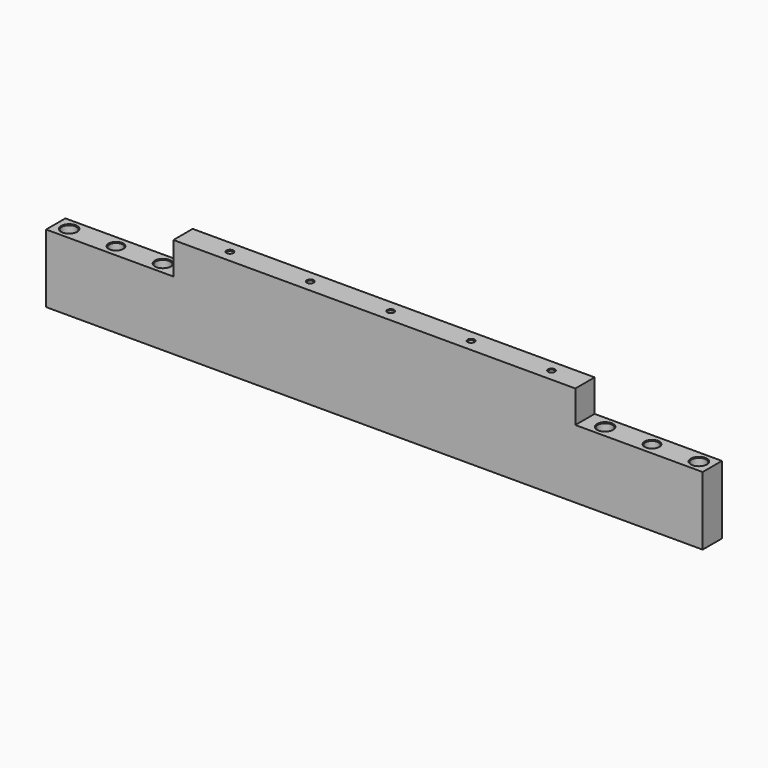
from build123d import *

# Parameters (mm, degrees)
F1_DEPTH = 9
F2_R     = 5.5
F3_DEPTH = 51
F4_R     = 2.1
F5_DEPTH = 25
F6_R     = 5
F7_DEPTH = 25
F8_SIZE  = 5
F9_SIZE  = 2.1
F10_SIZE = 0.5


with BuildPart() as f1:
    # F0 (on Front) → F1 (new body, symmetric)
    with BuildSketch(Plane.XZ):
        Polygon((-245, 13.5), (-245, -37.5), (245, -37.5), (245, 13.5), (150, 13.5), (150, 37.5), (-150, 37.5), (-150, 13.5), align=None)
    extrude(amount=F1_DEPTH, both=True)

    # F2 (on face) → F3 (cut, through all)
    with BuildSketch(Plane(origin=(0, 0, -37.5), x_dir=(1, 0, 0), z_dir=(0, 0, -1))):
        with Locations((235, 0)):
            Circle(F2_R)
        with Locations((165, 0)):
            Circle(F2_R)
        with Locations((-165, 0)):
            Circle(F2_R)
        with Locations((-235, 0)):
            Circle(F2_R)
    extrude(amount=-F3_DEPTH, mode=Mode.SUBTRACT)

    # F4 (on face) → F5 (cut)
    with BuildSketch(Plane.XY.offset(37.5)):
        with Locations((-115, 0)):
            Circle(F4_R)
        with Locations((-55, 0)):
            Circle(F4_R)
        with Locations((5, 0)):
            Circle(F4_R)
        with Locations((65, 0)):
            Circle(F4_R)
        with Locations((125, 0)):
            Circle(F4_R)
    extrude(amount=-F5_DEPTH, mode=Mode.SUBTRACT)

    # F6 (on face) → F7 (cut)
    with BuildSketch(Plane.XY.offset(13.5)):
        with Locations((-200, 0)):
            Circle(F6_R)
        with Locations((200, 0)):
            Circle(F6_R)
    extrude(amount=-F7_DEPTH, mode=Mode.SUBTRACT)

    # F8
    f8_edges = [f1.edges().sort_by_distance(p)[0] for p in [
        (-205, 0, -11.5),
        (195, 0, -11.5),
    ]]
    chamfer(f8_edges, length=F8_SIZE)

    # F9
    f9_edges = [f1.edges().sort_by_distance(p)[0] for p in [
        (122.9, 0, 12.5),
        (62.9, 0, 12.5),
        (2.9, 0, 12.5),
        (-57.1, 0, 12.5),
        (-117.1, 0, 12.5),
    ]]
    chamfer(f9_edges, length=F9_SIZE)

    # F10
    f10_edges = [f1.edges().sort_by_distance(p)[0] for p in [
        (-159.5, 0, -12),
        (-170.5, 0, -37.5),
        (-170.5, 0, 13.5),
        (-229.5, 0, -12),
        (-240.5, 0, -37.5),
        (-240.5, 0, 13.5),
        (-205, 0, 13.5),
        (-117.1, 0, 37.5),
        (-57.1, 0, 37.5),
        (2.9, 0, 37.5),
        (62.9, 0, 37.5),
        (122.9, 0, 37.5),
        (170.5, 0, -12),
        (159.5, 0, -37.5),
        (159.5, 0, 13.5),
        (240.5, 0, -12),
        (229.5, 0, -37.5),
        (229.5, 0, 13.5),
        (195, 0, 13.5),
    ]]
    chamfer(f10_edges, length=F10_SIZE)


solid = f1.part
